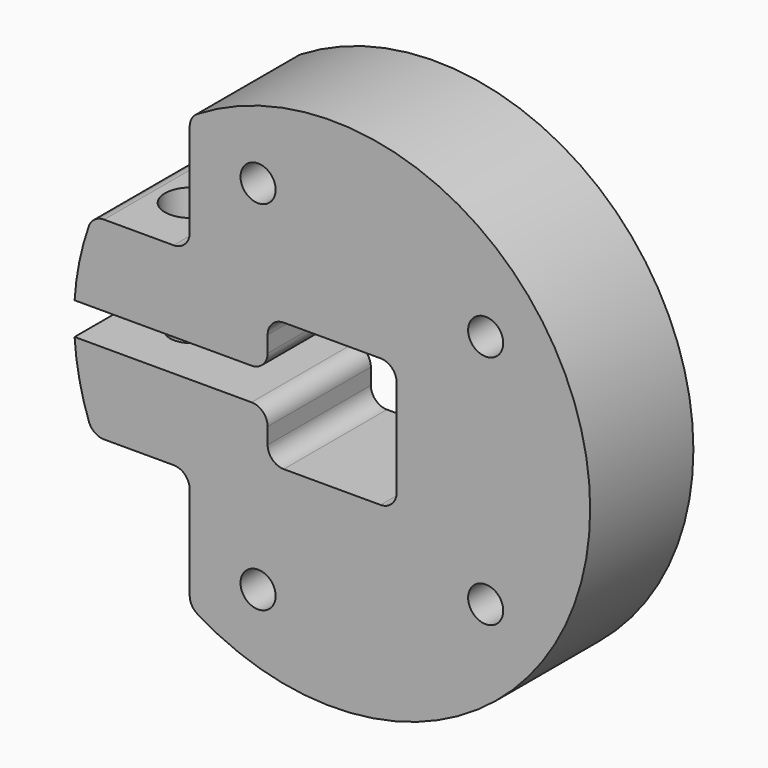
from build123d import *

# Parameters (mm, degrees)
F0_R      = 25.4
F1_DEPTH  = 6.35
F3_DEPTH  = 25.4
F5_DEPTH  = 25.4
F6_R      = 1.5875
F8_D      = 3.4544
F10_D     = 5.08
F10_DEPTH = 7.62
F10_TIP   = 1.5261859723
F12_D     = 4.0386
F12_DEPTH = 10.00125
F12_TIP   = 1.213317848


with BuildPart() as f1:
    # F0 (on Front) → F1 (new body, symmetric)
    with BuildSketch(Plane.XZ):
        Circle(F0_R)
    extrude(amount=F1_DEPTH, both=True)

    # F2 (on face) → F3 (cut)
    with BuildSketch(Plane.XZ.offset(6.35)):
        with BuildLine():
            Line((-6.35, -1.5875), (-6.35, 1.5875))
            Line((-6.35, 1.5875), (-25.3503420835, 1.5875))
            ThreePointArc((-25.3503420835, 1.5875), (-25.3875824855, 0.7941382371), (-25.4, 0))
            ThreePointArc((-25.4, 0), (-25.3875824855, -0.7941382371), (-25.3503420835, -1.5875))
            Line((-25.3503420835, -1.5875), (-6.35, -1.5875))
        make_face()
        Polygon((6.35, 6.35), (-6.35, 6.35), (-6.35, 1.5875), (-6.35, -1.5875), (-6.35, -6.35), (6.35, -6.35), align=None)
    extrude(amount=-F3_DEPTH, mode=Mode.SUBTRACT)

    # F4 (on face) → F5 (cut)
    with BuildSketch(Plane.XZ.offset(6.35)):
        with BuildLine():
            Line((-23.5464301965, 9.525), (-14.0214301965, 9.525))
            Line((-14.0214301965, 9.525), (-14.0214301965, 21.1792231974))
            ThreePointArc((-14.0214301965, 21.1792231974), (-19.6670095137, 16.0738525808), (-23.5464301965, 9.525))
        make_face()
        with BuildLine():
            ThreePointArc((-23.5464301965, -9.525), (-19.6670095137, -16.0738525808), (-14.0214301965, -21.1792231974))
            Line((-14.0214301965, -21.1792231974), (-14.0214301965, -9.525))
            Line((-14.0214301965, -9.525), (-23.5464301965, -9.525))
        make_face()
    extrude(amount=-F5_DEPTH, mode=Mode.SUBTRACT)

    # F6
    f6_edges = [f1.edges().sort_by_distance(p)[0] for p in [
        (-23.54643, 0, 9.525),
        (-14.02143, 0, 21.179223),
        (-14.02143, 0, 9.525),
        (-6.35, 0, 6.35),
        (-6.35, 0, 1.5875),
        (-6.35, 0, -1.5875),
        (-6.35, 0, -6.35),
        (6.35, 0, 6.35),
        (6.35, 0, -6.35),
        (-23.54643, 0, -9.525),
        (-14.02143, 0, -9.525),
        (-14.02143, 0, -21.179223),
    ]]
    fillet(f6_edges, radius=F6_R)

    # F8 (through all)
    with Locations(Plane.XZ.offset(6.35)):
        with Locations((-7.2901193866, 17.5999050943), (15.1133811325, 11.5969052226), (15.1133811325, -11.5969052226), (-7.2901193866, -17.5999050943)):
            Hole(F8_D / 2)

    # F10
    with Locations(Plane.XY.offset(9.525)):
        with Locations((-19.0003420835, 0)):
            Hole(F10_D / 2, depth=F10_DEPTH)
            with Locations((0, 0, -(F10_DEPTH + F10_TIP / 2))):  # 118° drill point
                Cone(0, F10_D / 2, F10_TIP, mode=Mode.SUBTRACT)

    # F12
    with Locations(Plane(origin=(0, 0, -9.525), x_dir=(1, 0, 0), z_dir=(0, 0, -1))):
        with Locations((-19.0003420835, 0)):
            Hole(F12_D / 2, depth=F12_DEPTH)
            with Locations((0, 0, -(F12_DEPTH + F12_TIP / 2))):  # 118° drill point
                Cone(0, F12_D / 2, F12_TIP, mode=Mode.SUBTRACT)


solid = f1.part
